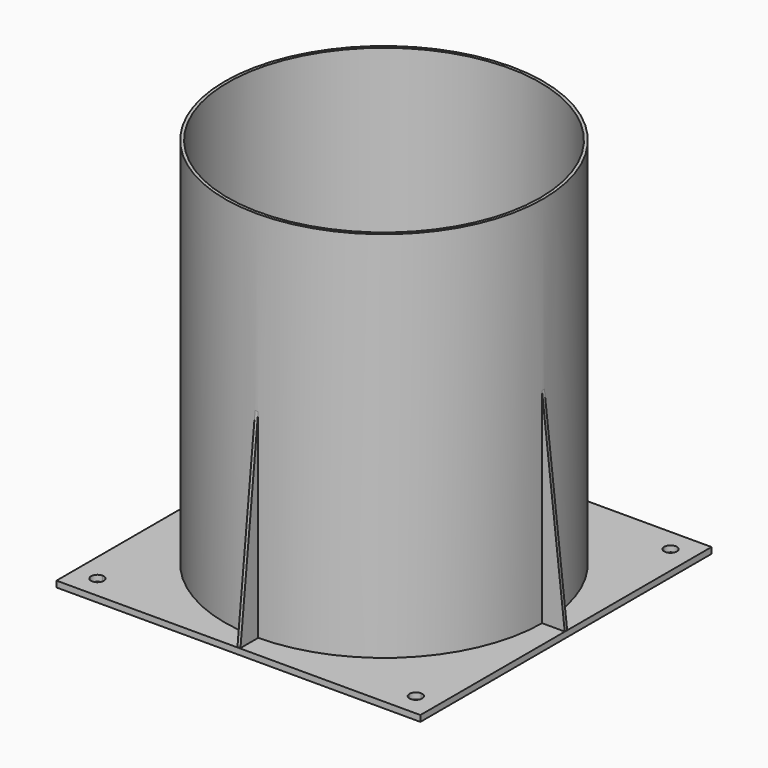
from build123d import *

# Parameters (mm, degrees)
F0_W     = 120
F0_H     = 120
F0_R     = 51.5
F1_DEPTH = 2
F2_DEPTH = 125
F5_DEPTH = 0.5
F6_DEPTH = 0.5


with BuildPart() as f1:
    # F0 (on Top) → F1 (new body)
    with BuildSketch(Plane.XY):
        with Locations((0.0018474467, 3.25e-08)):
            Rectangle(F0_W, F0_H)
        with BuildLine():
            ThreePointArc((-52.4981525533, 50.4000000325), (-53.9830767937, 53.984924273), (-50.3981525533, 52.5000000325))
            Line((-50.3981525533, 52.5000000325), (0.0018477668, 52.5000000325))
            Line((0.0018477668, 52.5000000325), (50.4018474467, 52.5000000325))
            ThreePointArc((50.4018474467, 52.5000000325), (52.5018474467, 54.6000000325), (54.6018474467, 52.5000000325))
            ThreePointArc((54.6018474467, 52.5000000325), (53.9867716872, 51.015075792), (52.5018474467, 50.4000000325))
            Line((52.5018474467, 50.4000000325), (52.5018474467, 0))
            Line((52.5018474467, 0), (52.5018474467, -50.3999999675))
            ThreePointArc((52.5018474467, -50.3999999675), (53.9867716872, -51.015075727), (54.6018474467, -52.4999999675))
            ThreePointArc((54.6018474467, -52.4999999675), (52.5018474467, -54.5999999675), (50.4018474467, -52.4999999675))
            Line((50.4018474467, -52.4999999675), (0.0018474467, -52.4999999675))
            Line((0.0018474467, -52.4999999675), (-50.3981525533, -52.4999999675))
            ThreePointArc((-50.3981525533, -52.4999999675), (-53.9830767937, -53.984924208), (-52.4981525533, -50.3999999675))
            Line((-52.4981525533, -50.3999999675), (-52.4981525533, -3.4e-09))
            Line((-52.4981525533, -3.4e-09), (-52.4981525533, 50.4000000325))
        make_face(mode=Mode.SUBTRACT)
        with BuildLine():
            Line((0.0018477668, 52.5000000325), (-50.3981525533, 52.5000000325))
            ThreePointArc((-50.3981525533, 52.5000000325), (-51.0132283128, 51.015075792), (-52.4981525533, 50.4000000325))
            Line((-52.4981525533, 50.4000000325), (-52.4981525533, -3.4e-09))
            ThreePointArc((-52.4981525533, -3.4e-09), (-37.1212584536, 37.1231061243), (0.0018477668, 52.5))
        make_face()
        with BuildLine():
            Line((50.4018474467, 52.5000000325), (0.0018477668, 52.5000000325))
            ThreePointArc((0.0018477668, 52.5), (37.1249535722, 37.1231058991), (52.5018474467, 0))
            Line((52.5018474467, 0), (52.5018474467, 50.4000000325))
            ThreePointArc((52.5018474467, 50.4000000325), (51.0169232063, 51.015075792), (50.4018474467, 52.5000000325))
        make_face()
        with BuildLine():
            Line((52.5018474467, -50.3999999675), (52.5018474467, 0))
            ThreePointArc((52.5018474467, 0), (37.124953459, -37.1231060123), (0.0018474467, -52.5))
            Line((0.0018474467, -52.4999999675), (50.4018474467, -52.4999999675))
            ThreePointArc((50.4018474467, -52.4999999675), (51.0169232063, -51.015075727), (52.5018474467, -50.3999999675))
        make_face()
        with BuildLine():
            ThreePointArc((0.0018474467, -52.5), (-37.1212585644, -37.1231060135), (-52.4981525533, -3.4e-09))
            Line((-52.4981525533, -3.4e-09), (-52.4981525533, -50.3999999675))
            ThreePointArc((-52.4981525533, -50.3999999675), (-51.0132283128, -51.015075727), (-50.3981525533, -52.4999999675))
            Line((-50.3981525533, -52.4999999675), (0.0018474467, -52.4999999675))
        make_face()
        with BuildLine():
            ThreePointArc((52.5018474467, 0), (37.1249535722, 37.1231058991), (0.0018477668, 52.5))
            ThreePointArc((0.0018477668, 52.5), (-37.1212584536, 37.1231061243), (-52.4981525533, -3.4e-09))
            ThreePointArc((-52.4981525533, -3.4e-09), (-37.1212585644, -37.1231060135), (0.0018474467, -52.5))
            ThreePointArc((0.0018474467, -52.5), (37.124953459, -37.1231060123), (52.5018474467, 0))
        make_face()
        with Locations((0.0018474467, 0)):
            Circle(F0_R, mode=Mode.SUBTRACT)
    extrude(amount=F1_DEPTH)

    # F0 (on Top) → F2 (join)
    with BuildSketch(Plane.XY):
        with BuildLine():
            ThreePointArc((52.5018474467, 0), (37.1249535722, 37.1231058991), (0.0018477668, 52.5))
            ThreePointArc((0.0018477668, 52.5), (-37.1212584536, 37.1231061243), (-52.4981525533, -3.4e-09))
            ThreePointArc((-52.4981525533, -3.4e-09), (-37.1212585644, -37.1231060135), (0.0018474467, -52.5))
            ThreePointArc((0.0018474467, -52.5), (37.124953459, -37.1231060123), (52.5018474467, 0))
        make_face()
        with Locations((0.0018474467, 0)):
            Circle(F0_R, mode=Mode.SUBTRACT)
    extrude(amount=F2_DEPTH)

    # F3 (on Front) → F5 (join, symmetric)
    with BuildSketch(Plane.XZ):
        Polygon((-52.1482676268, 72.7708116174), (-59.9962957203, 2.0518270321), (-52.1482676268, 2.0518270321), align=None)
        Polygon((52.1482676268, 2.0518270321), (59.9962957203, 2.0518270321), (52.1482676268, 72.7708116174), align=None)
    extrude(amount=F5_DEPTH, both=True)

    # F4 (on Right) → F6 (join, symmetric)
    with BuildSketch(Plane.YZ):
        Polygon((-52.1623715758, 70.7189845853), (-60.0103996694, 0), (-52.1623715758, 0), align=None)
        Polygon((52.1341636777, 0), (59.9821917713, 0), (52.1341636777, 70.7189845853), align=None)
    extrude(amount=F6_DEPTH, both=True)


solid = f1.part
